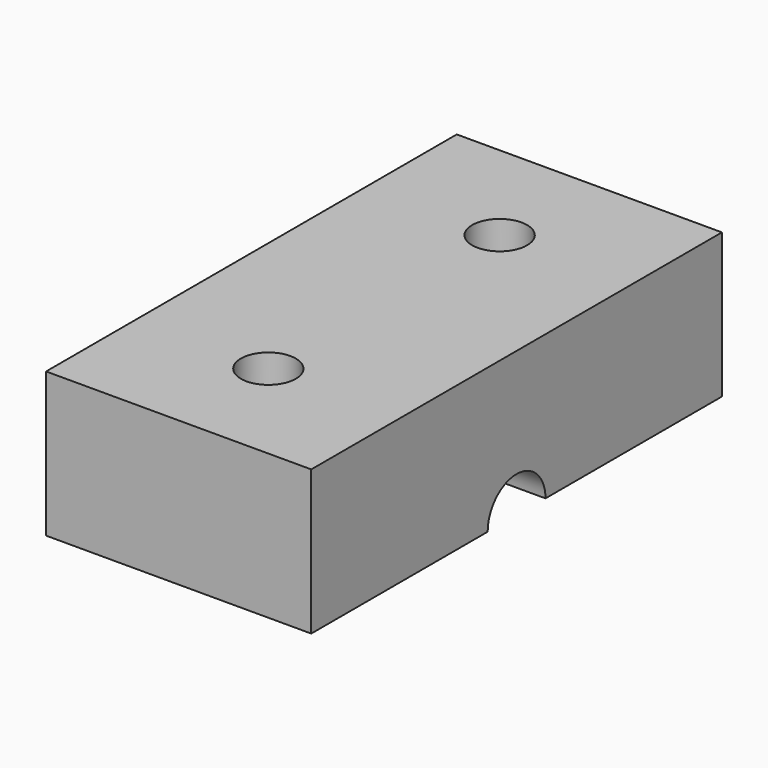
from build123d import *

# Parameters (mm, degrees)
F0_W     = 11.648168
F0_H     = 22.549662
F0_R     = 1.2065
F2_DEPTH = 6.35
F3_D     = 3.175
F5_D     = 3.175


with BuildPart() as f2:
    # F0 (on Top) → F2 (new body)
    with BuildSketch(Plane.XY):
        Rectangle(F0_W, F0_H)
        with Locations((0, -6.35)):
            Circle(F0_R, mode=Mode.SUBTRACT)
        with Locations((0, 6.35)):
            Circle(F0_R, mode=Mode.SUBTRACT)
    extrude(amount=F2_DEPTH)

    # F3 (through all)
    with Locations(Plane(origin=(0, 0, 0), x_dir=(0, 1, 0), z_dir=(-1, 0, 0))):
        with Locations((0, 0)):
            Hole(F3_D / 2)

    # F5 (through all)
    with Locations(Plane.YZ):
        with Locations((0, 0)):
            Hole(F5_D / 2)


solid = f2.part
